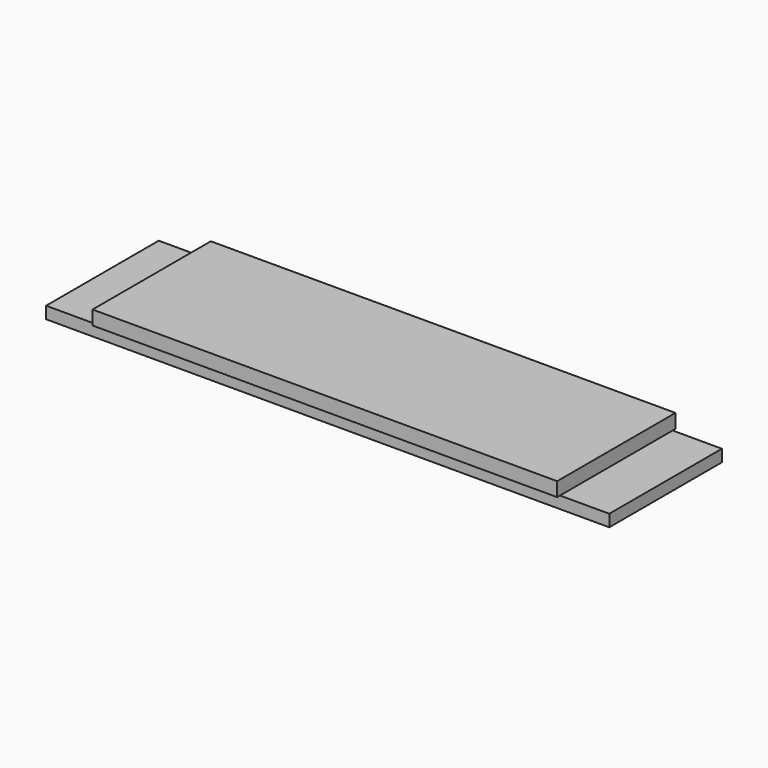
from build123d import *

# Parameters (mm, degrees)
F0_W     = 660
F0_H     = 210
F1_DEPTH = 20
F2_W     = 800
F2_H     = 200
F3_DEPTH = 17


with BuildPart() as f1:
    # F0 (on Top) → F1 (new body)
    with BuildSketch(Plane.XY):
        Rectangle(F0_W, F0_H)
    extrude(amount=F1_DEPTH)


with BuildPart() as f3:
    # F2 (on face) → F3 (new body)
    with BuildSketch(Plane(origin=(0, 0, 0), x_dir=(1, 0, 0), z_dir=(0, 0, -1))):
        Rectangle(F2_W, F2_H)
    extrude(amount=F3_DEPTH)


solid = Compound([f1.part, f3.part])
